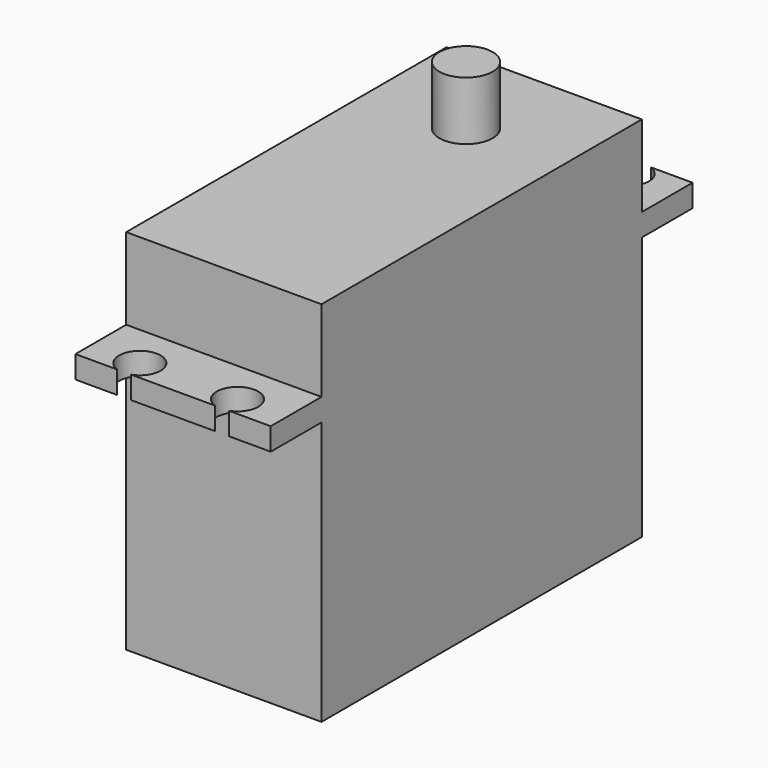
from build123d import *

# Parameters (mm, degrees)
F0_W     = 20
F0_H     = 41
F1_DEPTH = 27
F2_W     = 20
F2_H     = 41
F3_DEPTH = 2.3
F4_W     = 20
F4_H     = 41
F5_DEPTH = 8.35
F6_R     = 2.73
F7_DEPTH = 6


with BuildPart() as f1:
    # F0 (on Top) → F1 (new body)
    with BuildSketch(Plane.XY):
        with Locations((10, 20.5)):
            Rectangle(F0_W, F0_H)
    extrude(amount=F1_DEPTH)

    # F2 (on face) → F3 (join)
    with BuildSketch(Plane.XY.offset(27)):
        with Locations((10, 20.5)):
            Rectangle(F2_W, F2_H)
        with BuildLine():
            Line((0, 41), (20, 41))
            Line((20, 41), (20, 47.5))
            Line((20, 47.5), (15.7180703308, 47.5))
            ThreePointArc((15.7180703308, 47.5), (16.7380340119, 46.7226458087), (17.125, 45.5))
            ThreePointArc((17.125, 45.5), (13.7773541913, 43.7619659881), (14.2819296692, 47.5))
            Line((14.2819296692, 47.5), (5.7180703308, 47.5))
            ThreePointArc((5.7180703308, 47.5), (6.7380340119, 46.7226458087), (7.125, 45.5))
            ThreePointArc((7.125, 45.5), (3.7773541913, 43.7619659881), (4.2819296692, 47.5))
            Line((4.2819296692, 47.5), (0, 47.5))
            Line((0, 47.5), (0, 41))
        make_face()
        with BuildLine():
            Line((20, -6.5), (20, 0))
            Line((20, 0), (0, 0))
            Line((0, 0), (0, -6.5))
            Line((0, -6.5), (4.2819296692, -6.5))
            ThreePointArc((4.2819296692, -6.5), (3.7773541913, -2.7619659881), (7.125, -4.5))
            ThreePointArc((7.125, -4.5), (6.7380340119, -5.7226458087), (5.7180703308, -6.5))
            Line((5.7180703308, -6.5), (14.2819296692, -6.5))
            ThreePointArc((14.2819296692, -6.5), (13.7773541913, -2.7619659881), (17.125, -4.5))
            ThreePointArc((17.125, -4.5), (16.7380340119, -5.7226458087), (15.7180703308, -6.5))
            Line((15.7180703308, -6.5), (20, -6.5))
        make_face()
    extrude(amount=F3_DEPTH)

    # F4 (on face) → F5 (join)
    with BuildSketch(Plane.XY.offset(29.3)):
        with Locations((10, 20.5)):
            Rectangle(F4_W, F4_H)
    extrude(amount=F5_DEPTH)

    # F6 (on face) → F7 (join)
    with BuildSketch(Plane.XY.offset(37.65)):
        with Locations((10, 31)):
            Circle(F6_R)
    extrude(amount=F7_DEPTH)


with BuildPart() as f8_1:
    # F8: copy of F1
    add(f1.part)


solid = Compound([f1.part, f8_1.part])
